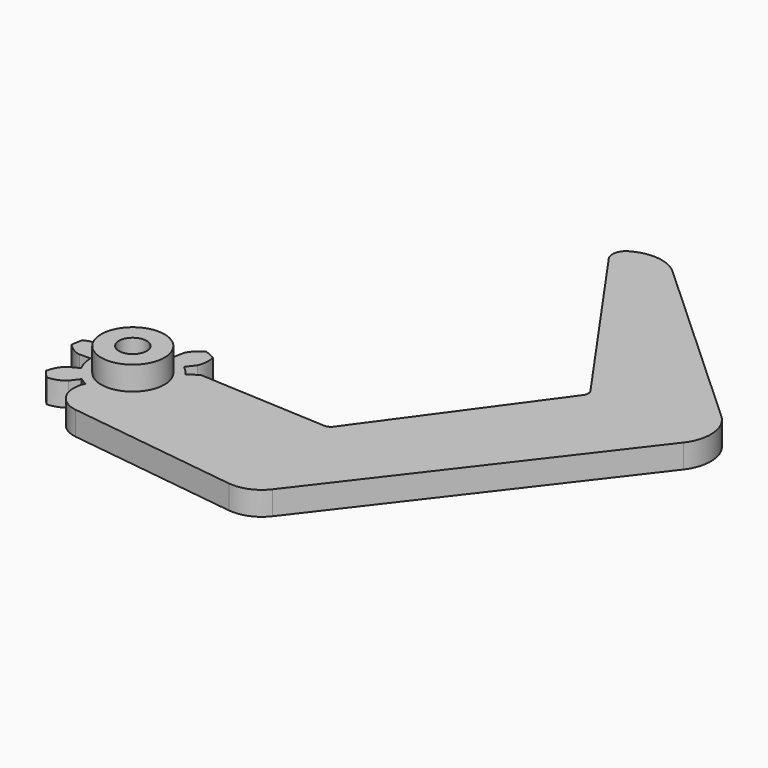
from build123d import *

# Parameters (mm, degrees)
PAD_DEPTH                                 = 3
EXTRUDE_DEPTH                             = 3
EXTRUDE_ONTO_INVOLUTEGEAR_PLACEMENT_ANGLE = -15
EXTRUDE_PLACEMENT_ANGLE                   = 29.533929
SKETCH001_R                               = 4
PAD001_DEPTH                              = 3
SKETCH002_R                               = 1.75
POCKET001_DEPTH                           = 6.001


with BuildPart() as claw_body:
    # Sketch → Pad (new body)
    with BuildSketch(Plane.XY):
        with BuildLine():
            ThreePointArc((2.197615, -4.7128), (3.983431, 3.342496), (-4.259591, 2.982597))
            Line((-5.488319, 3.842962), (-4.259591, 2.982597))
            Line((-5.488319, 3.842962), (-21.76598, 2.989886))
            ThreePointArc((-22.627333, 3.40073), (-22.248827, 3.08593), (-21.76598, 2.989886))
            Line((-22.627333, 3.40073), (-37.615857, 24.030664))
            ThreePointArc((-37.625992, 25.192025), (-37.806802, 24.609722), (-37.615857, 24.030664))
            Line((-37.625992, 25.192025), (-21.393779, 48.374028))
            ThreePointArc((-21.393779, 48.374028), (-21.125112, 49.710122), (-21.924071, 50.814201))
            ThreePointArc((-21.924071, 50.814201), (-25.071791, 51.496726), (-28.008332, 50.173585))
            Line((-28.008332, 50.173585), (-51.085112, 29.027611))
            ThreePointArc((-51.085112, 29.027611), (-52.688135, 25.777003), (-51.673928, 22.297417))
            Line((-51.673928, 22.297417), (-26.288576, -10.785417))
            ThreePointArc((-26.288576, -10.785417), (-24.440562, -12.203448), (-22.131119, -12.507492))
            Line((-22.131119, -12.507492), (-0.517621, -9.662021))
            ThreePointArc((-0.517621, -9.662021), (2.094081, -7.875425), (2.197615, -4.7128))
        make_face()
    extrude(amount=PAD_DEPTH)


with BuildPart() as part_mirroring:
    # Part__Mirroring: instance of claw-body
    add(claw_body.part.mirror(Plane(origin=(0, 0, 0), x_dir=(0, -1, 0), z_dir=(1, 0, 0))))


with BuildPart() as drill:
    # InvoluteGear as drawn → Extrude (new)
    with BuildSketch(Plane.XY):
        with BuildLine():
            Line((4.810602, -1.107072), (6.405135, -1.472675))
            add(Edge.make_bspline(
                [(6.405135, -1.472675), (6.508382, -1.483345), (6.922829, -1.512197), (7.670072, -1.341281), (8.519169, -0.723794)],
                knots=[0, 0, 0, 0, 0, 1, 1, 1, 1, 1], degree=4))
            ThreePointArc((8.519169, -0.723794), (8.54986, 0), (8.519169, 0.723794))
            add(Edge.make_bspline(
                [(8.519169, 0.723794), (7.670072, 1.341281), (6.922829, 1.512197), (6.508382, 1.483345), (6.405135, 1.472675)],
                knots=[0, 0, 0, 0, 0, 1, 1, 1, 1, 1], degree=4))
            Line((6.405135, 1.472675), (4.810602, 1.107072))
            ThreePointArc((4.810602, 1.107072), (4.31977, 1.170473), (3.988644, 1.538293))
            ThreePointArc((3.988644, 1.538293), (3.851642, 1.854853), (3.689565, 2.159338))
            ThreePointArc((3.689565, 2.159338), (3.608445, 2.647554), (3.864905, 3.070832))
            Line((3.864905, 3.070832), (5.14492, 4.089539))
            add(Edge.make_bspline(
                [(5.14492, 4.089539), (5.217636, 4.163608), (5.498597, 4.469646), (5.830867, 5.160429), (5.8775, 6.209276)],
                knots=[0, 0, 0, 0, 0, 1, 1, 1, 1, 1], degree=4))
            ThreePointArc((5.8775, 6.209276), (5.330751, 6.68455), (4.74573, 7.111832))
            add(Edge.make_bspline(
                [(4.74573, 7.111832), (3.733556, 6.832978), (3.13403, 6.355326), (2.898184, 6.013309), (2.842153, 5.925934)],
                knots=[0, 0, 0, 0, 0, 1, 1, 1, 1, 1], degree=4))
            Line((2.842153, 5.925934), (2.133817, 4.451328))
            ThreePointArc((2.133817, 4.451328), (1.77822, 4.10711), (1.284193, 4.077557))
            ThreePointArc((1.284193, 4.077557), (0.951277, 4.167817), (0.612168, 4.230943))
            ThreePointArc((0.612168, 4.230943), (0.179887, 4.471919), (0.008856, 4.936337))
            Line((0.008856, 4.936337), (0.010475, 6.572246))
            add(Edge.make_bspline(
                [(0.010475, 6.572246), (-0.002097, 6.675279), (-0.066191, 7.085755), (-0.3991, 7.77623), (-1.190047, 8.466635)],
                knots=[0, 0, 0, 0, 0, 1, 1, 1, 1, 1], degree=4))
            ThreePointArc((-1.190047, 8.466635), (-1.902523, 8.335497), (-2.60134, 8.144516))
            add(Edge.make_bspline(
                [(-2.60134, 8.144516), (-3.014403, 7.179304), (-3.014758, 6.412764), (-2.894406, 6.015128), (-2.861029, 5.916844)],
                knots=[0, 0, 0, 0, 0, 1, 1, 1, 1, 1], degree=4))
            Line((-2.861029, 5.916844), (-2.149775, 4.443643))
            ThreePointArc((-2.149775, 4.443643), (-2.102366, 3.951009), (-2.387281, 3.546338))
            ThreePointArc((-2.387281, 3.546338), (-2.665419, 3.34233), (-2.926204, 3.116562))
            ThreePointArc((-2.926204, 3.116562), (-3.384129, 2.928837), (-3.853862, 3.08468))
            Line((-3.853862, 3.08468), (-5.131858, 4.105918))
            add(Edge.make_bspline(
                [(-5.131858, 4.105918), (-5.220251, 4.160329), (-5.581136, 4.366146), (-6.328536, 4.536371), (-7.361464, 4.348444)],
                knots=[0, 0, 0, 0, 0, 1, 1, 1, 1, 1], degree=4))
            ThreePointArc((-7.361464, 4.348444), (-7.703158, 3.709645), (-7.989548, 3.044213))
            add(Edge.make_bspline(
                [(-7.989548, 3.044213), (-7.492456, 2.119467), (-6.893372, 1.64126), (-6.507449, 1.487434), (-6.409797, 1.45225)],
                knots=[0, 0, 0, 0, 0, 1, 1, 1, 1, 1], degree=4))
            Line((-6.409797, 1.45225), (-4.814543, 1.089804))
            ThreePointArc((-4.814543, 1.089804), (-4.399827, 0.819718), (-4.261084, 0.344654))
            ThreePointArc((-4.261084, 0.344654), (-4.275, 0), (-4.261084, -0.344654))
            ThreePointArc((-4.261084, -0.344654), (-4.399827, -0.819718), (-4.814543, -1.089804))
            Line((-4.814543, -1.089804), (-6.409797, -1.45225))
            add(Edge.make_bspline(
                [(-6.409797, -1.45225), (-6.507449, -1.487434), (-6.893372, -1.64126), (-7.492456, -2.119467), (-7.989548, -3.044213)],
                knots=[0, 0, 0, 0, 0, 1, 1, 1, 1, 1], degree=4))
            ThreePointArc((-7.989548, -3.044213), (-7.703158, -3.709645), (-7.361464, -4.348444))
            add(Edge.make_bspline(
                [(-7.361464, -4.348444), (-6.328536, -4.536371), (-5.581136, -4.366146), (-5.220251, -4.160329), (-5.131858, -4.105918)],
                knots=[0, 0, 0, 0, 0, 1, 1, 1, 1, 1], degree=4))
            Line((-5.131858, -4.105918), (-3.853862, -3.08468))
            ThreePointArc((-3.853862, -3.08468), (-3.384129, -2.928837), (-2.926204, -3.116562))
            ThreePointArc((-2.926204, -3.116562), (-2.665419, -3.34233), (-2.387281, -3.546338))
            ThreePointArc((-2.387281, -3.546338), (-2.102366, -3.951009), (-2.149775, -4.443643))
            Line((-2.149775, -4.443643), (-2.861029, -5.916844))
            add(Edge.make_bspline(
                [(-2.861029, -5.916844), (-2.894406, -6.015128), (-3.014758, -6.412764), (-3.014403, -7.179304), (-2.60134, -8.144516)],
                knots=[0, 0, 0, 0, 0, 1, 1, 1, 1, 1], degree=4))
            ThreePointArc((-2.60134, -8.144516), (-1.902523, -8.335497), (-1.190047, -8.466635))
            add(Edge.make_bspline(
                [(-1.190047, -8.466635), (-0.3991, -7.77623), (-0.066191, -7.085755), (-0.002097, -6.675279), (0.010475, -6.572246)],
                knots=[0, 0, 0, 0, 0, 1, 1, 1, 1, 1], degree=4))
            Line((0.010475, -6.572246), (0.008856, -4.936337))
            ThreePointArc((0.008856, -4.936337), (0.179887, -4.471919), (0.612168, -4.230943))
            ThreePointArc((0.612168, -4.230943), (0.951277, -4.167817), (1.284193, -4.077557))
            ThreePointArc((1.284193, -4.077557), (1.77822, -4.10711), (2.133817, -4.451328))
            Line((2.133817, -4.451328), (2.842153, -5.925934))
            add(Edge.make_bspline(
                [(2.842153, -5.925934), (2.898184, -6.013309), (3.13403, -6.355326), (3.733556, -6.832978), (4.74573, -7.111832)],
                knots=[0, 0, 0, 0, 0, 1, 1, 1, 1, 1], degree=4))
            ThreePointArc((4.74573, -7.111832), (5.330751, -6.68455), (5.8775, -6.209276))
            add(Edge.make_bspline(
                [(5.8775, -6.209276), (5.830867, -5.160429), (5.498597, -4.469646), (5.217636, -4.163608), (5.14492, -4.089539)],
                knots=[0, 0, 0, 0, 0, 1, 1, 1, 1, 1], degree=4))
            Line((5.14492, -4.089539), (3.864905, -3.070832))
            ThreePointArc((3.864905, -3.070832), (3.608445, -2.647554), (3.689565, -2.159338))
            ThreePointArc((3.689565, -2.159338), (3.851642, -1.854853), (3.988644, -1.538293))
            ThreePointArc((3.988644, -1.538293), (4.31977, -1.170473), (4.810602, -1.107072))
        make_face()
    extrude(amount=EXTRUDE_DEPTH)


with BuildPart() as drill_1:
    # Extrude onto InvoluteGear placement: moved
    add(drill.part.rotate(Axis((0, 0, 0), (0, 0, 1)), EXTRUDE_ONTO_INVOLUTEGEAR_PLACEMENT_ANGLE))


with BuildPart() as drill_2:
    # Extrude placement: moved
    add(drill_1.part.rotate(Axis((0, 0, 0), (0, 0, 1)), EXTRUDE_PLACEMENT_ANGLE))

    # Fusion001: union Part__Mirroring
    add(part_mirroring.part)

    # Sketch001 → Pad001 (new body)
    with BuildSketch(Plane.XY.offset(3)):
        Circle(SKETCH001_R)
    extrude(amount=PAD001_DEPTH)

    # Sketch002 → Pocket001 (cut, through all)
    with BuildSketch(Plane.XY.offset(6)):
        Circle(SKETCH002_R)
    extrude(amount=-POCKET001_DEPTH, mode=Mode.SUBTRACT)


solid = drill_2.part
